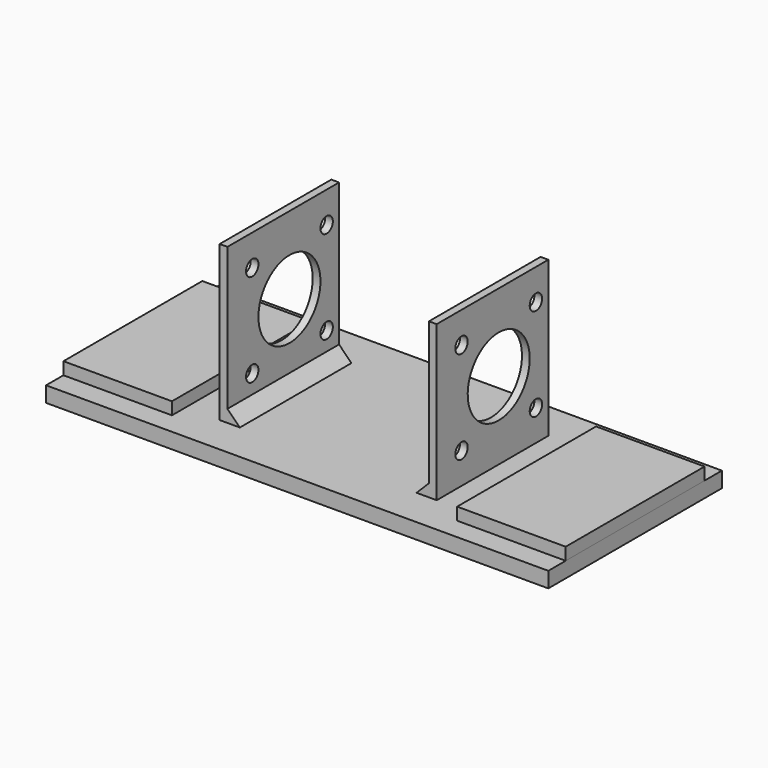
from build123d import *

# Parameters (mm, degrees)
CYLINDER035_R          = 12.5
CYLINDER035_DEPTH      = 25
CYLINDER034_R          = 2.5
CYLINDER034_DEPTH      = 8
BOX022_W               = 45
BOX022_H               = 50
BOX022_DEPTH           = 2.5
CUT042_ROLL_ANGLE      = 90
CUT042_PLACEMENT_ANGLE = 90
BOX013_W               = 35
BOX013_H               = 56
BOX013_DEPTH           = 4
BOX002_W               = 162
BOX002_H               = 70
BOX002_DEPTH           = 5
CHAMFER_SIZE           = 4
CHAMFER001_SIZE        = 4


with BuildPart() as hueco_rotor001:
    # Cylinder035 → Cylinder035 (new body)
    with BuildSketch(Plane(origin=(25, 2.5, 30), x_dir=(0, 0, -1), z_dir=(1, 0, 0))):
        Circle(CYLINDER035_R)
    extrude(amount=CYLINDER035_DEPTH)


with BuildPart() as obj1:
    # Cylinder034 → Cylinder034 (new body)
    with BuildSketch(Plane(origin=(10, 10, 38), x_dir=(1, 0, 0), z_dir=(0, 0, 1))):
        Circle(CYLINDER034_R)
    extrude(amount=CYLINDER034_DEPTH)


with BuildPart() as obj2:
    # Link025 base: copy of obj1
    add(obj1.part)


with BuildPart() as obj2_1:
    # Link025 placement: moved
    add(obj2.part.moved(Location((0, 30, 0))))


with BuildPart() as obj3:
    # Link024 base: copy of obj1
    add(obj1.part)


with BuildPart() as obj3_1:
    # Link024 placement: moved
    add(obj3.part.moved(Location((30, 0, 0))))


with BuildPart() as obj4:
    # Link023 base: copy of obj1
    add(obj1.part)


with BuildPart() as obj4_1:
    # Link023 placement: moved
    add(obj4.part.moved(Location((30, 30, 0))))


with BuildPart() as union_base_motor:
    # Box022 → Box022 (new body)
    with BuildSketch(Plane.XY.offset(40)):
        with Locations((22.5, 25)):
            Rectangle(BOX022_W, BOX022_H)
    extrude(amount=BOX022_DEPTH)

    # Cut039: cut obj4
    add(obj4_1.part, mode=Mode.SUBTRACT)

    # Cut040: cut obj3
    add(obj3_1.part, mode=Mode.SUBTRACT)

    # Cut041: cut obj2
    add(obj2_1.part, mode=Mode.SUBTRACT)

    # Cut042: cut obj1
    add(obj1.part, mode=Mode.SUBTRACT)


with BuildPart() as union_base_motor_1:
    # Cut042 roll: moved
    add(union_base_motor.part.rotate(Axis((0, 0, 0), (1, 0, 0)), CUT042_ROLL_ANGLE))


with BuildPart() as union_base_motor_2:
    # Cut042 placement: moved
    add(union_base_motor_1.part.moved(Location((0, -22.5, 5))).rotate(Axis((0, -22.5, 5), (0, 0, 1)), CUT042_PLACEMENT_ANGLE))

    # Cut043: cut Hueco rotor001
    add(hueco_rotor001.part, mode=Mode.SUBTRACT)


with BuildPart() as union_base_motor_3:
    # Cut043 placement: moved
    add(union_base_motor_2.part.moved(Location((-1, 0, 0))))


with BuildPart() as soporte_motor:
    # Box013 → Box013 (new body)
    with BuildSketch(Plane(origin=(0, -28, 5), x_dir=(1, 0, 0), z_dir=(0, 0, 1))):
        with Locations((17.5, 28)):
            Rectangle(BOX013_W, BOX013_H)
    extrude(amount=BOX013_DEPTH)


with BuildPart() as obj5:
    # Box002 → Box002 (new body)
    with BuildSketch(Plane(origin=(0, -35, 0), x_dir=(1, 0, 0), z_dir=(0, 0, 1))):
        with Locations((81, 35)):
            Rectangle(BOX002_W, BOX002_H)
    extrude(amount=BOX002_DEPTH)


with BuildPart() as base:
    # Link011 base: copy of soporte motor
    add(soporte_motor.part)


with BuildPart() as base_1:
    # Link011 placement: moved
    add(base.part.moved(Location((127.000053, -2e-06, -2e-06))))

    # Fusion008: union soporte motor, obj5
    add(soporte_motor.part)
    add(obj5.part)


with BuildPart() as base_2:
    # Fusion008 placement: moved
    add(base_1.part.moved(Location((-7, 0, 0))))


with BuildPart() as chamfer001:
    # Link base: copy of union base motor
    add(union_base_motor_3.part)


with BuildPart() as chamfer001_1:
    # Link placement: moved
    add(chamfer001.part.moved(Location((67.5, -8e-06, 0))))

    # Fusion063: union union base motor, Base
    add(union_base_motor_3.part)
    add(base_2.part)

    # Chamfer
    chamfer_edges = [chamfer001_1.edges().sort_by_distance(p)[0] for p in [
        (41.5, 0, 5),
    ]]
    chamfer(chamfer_edges, length=CHAMFER_SIZE)

    # Chamfer001
    chamfer001_edges = [chamfer001_1.edges().sort_by_distance(p)[0] for p in [
        (106.5, -8e-06, 5),
    ]]
    chamfer(chamfer001_edges, length=CHAMFER001_SIZE)


solid = chamfer001_1.part
